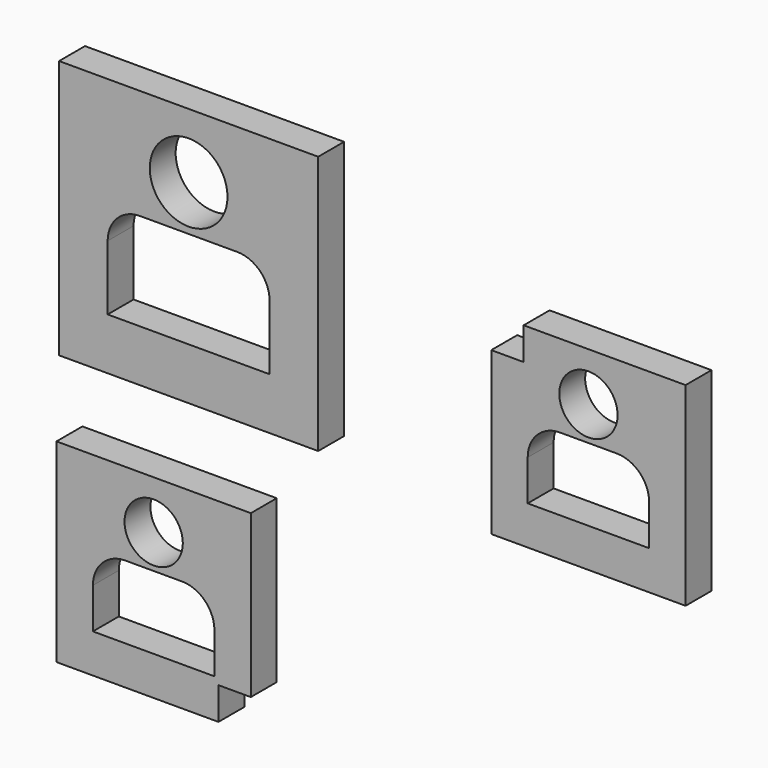
from build123d import *

# Parameters (mm, degrees)
F0_W     = 50.8
F0_H     = 50.8
F0_R     = 7.62
F3_DEPTH = 6.35
F1_R     = 5.715
F2_R     = 5.715
F4_DEPTH = 6.35


with BuildPart() as f3:
    # F0 (on Front) → F3 (new body)
    with BuildSketch(Plane.XZ):
        with Locations((-32.590854, 34.652036)):
            Rectangle(F0_W, F0_H)
        with BuildLine():
            ThreePointArc((-48.465854, 32.112036), (-46.605982, 36.602164), (-42.115854, 38.462036))
            Line((-42.115854, 38.462036), (-23.065854, 38.462036))
            ThreePointArc((-23.065854, 38.462036), (-18.575725, 36.602164), (-16.715854, 32.112036))
            Line((-16.715854, 32.112036), (-16.715854, 19.412036))
            Line((-16.715854, 19.412036), (-48.465854, 19.412036))
            Line((-48.465854, 19.412036), (-48.465854, 32.112036))
        make_face(mode=Mode.SUBTRACT)
        with Locations((-32.590854, 47.352036)):
            Circle(F0_R, mode=Mode.SUBTRACT)
    extrude(amount=F3_DEPTH)


with BuildPart() as f4:
    # F1 (on Front) + F2 (on Front) → F4 (new body)
    with BuildSketch(Plane.XZ):
        Polygon((64.848245, 44.064415), (33.098245, 44.064415), (33.098245, 37.714415), (26.748245, 37.714415), (26.748245, 5.964415), (64.848245, 5.964415), align=None)
        with BuildLine():
            ThreePointArc((33.891995, 21.521915), (35.751867, 26.012043), (40.241995, 27.871915))
            Line((40.241995, 27.871915), (51.354495, 27.871915))
            ThreePointArc((51.354495, 27.871915), (55.844623, 26.012043), (57.704495, 21.521915))
            Line((57.704495, 21.521915), (57.704495, 13.584415))
            Line((57.704495, 13.584415), (33.891995, 13.584415))
            Line((33.891995, 13.584415), (33.891995, 21.521915))
        make_face(mode=Mode.SUBTRACT)
        with Locations((45.798245, 34.539415)):
            Circle(F1_R, mode=Mode.SUBTRACT)
    with BuildSketch(Plane.XZ):
        Polygon((-20.396993, -5.761765), (-58.496993, -5.761765), (-58.496993, -43.861765), (-26.746993, -43.861765), (-26.746993, -37.511765), (-20.396993, -37.511765), align=None)
        with BuildLine():
            ThreePointArc((-51.359593, -28.291565), (-49.499721, -23.801437), (-45.009593, -21.941565))
            Line((-45.009593, -21.941565), (-33.884393, -21.941565))
            ThreePointArc((-33.884393, -21.941565), (-29.394265, -23.801437), (-27.534393, -28.291565))
            Line((-27.534393, -28.291565), (-27.534393, -36.241765))
            Line((-27.534393, -36.241765), (-51.359593, -36.241765))
            Line((-51.359593, -36.241765), (-51.359593, -28.291565))
        make_face(mode=Mode.SUBTRACT)
        with Locations((-39.446993, -15.286765)):
            Circle(F2_R, mode=Mode.SUBTRACT)
    extrude(amount=F4_DEPTH)


solid = Compound([f3.part, f4.part])
